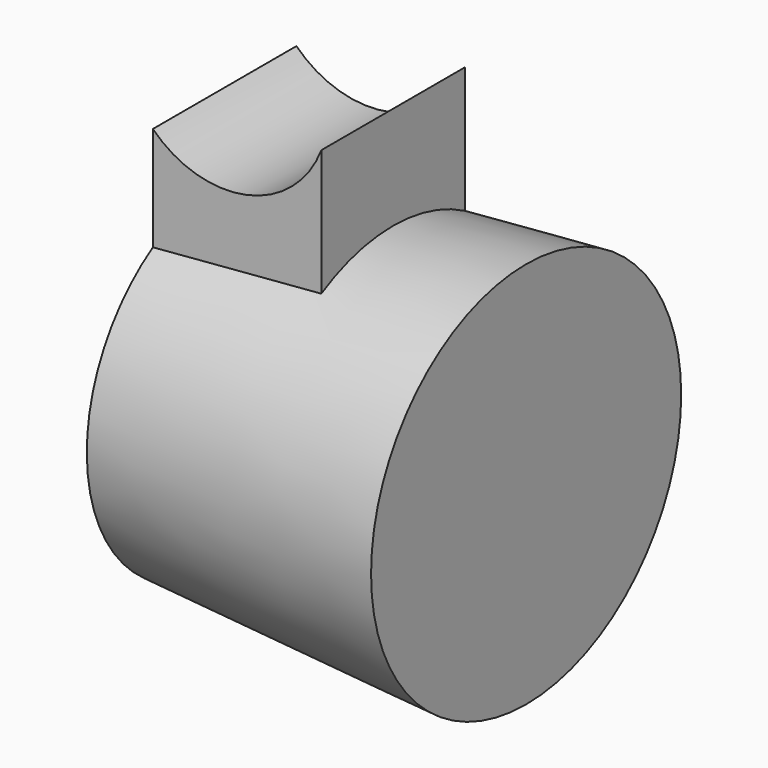
from build123d import *

# Parameters (mm, degrees)
F3_DEPTH = 12.5


with BuildPart() as f1:
    # F0 (on Front) → F1 (revolve)
    with BuildSketch(Plane.XZ):
        Polygon((0, 0), (0, 27), (-42, 24), (-42, 0), align=None)
    revolve(axis=Axis((-21, 0, 0), (1, 0, 0)))

    # F2 (on Front) → F3 (join, symmetric)
    with BuildSketch(Plane.XZ):
        with BuildLine():
            ThreePointArc((-18.532742, 40.028698), (-28.904432, 31.158633), (-42, 35))
            Line((-42, 35), (-42, 0))
            Line((-42, 0), (-18.532742, 0))
            Line((-18.532742, 0), (-18.532742, 40.028698))
        make_face()
    extrude(amount=F3_DEPTH, both=True)


solid = f1.part
